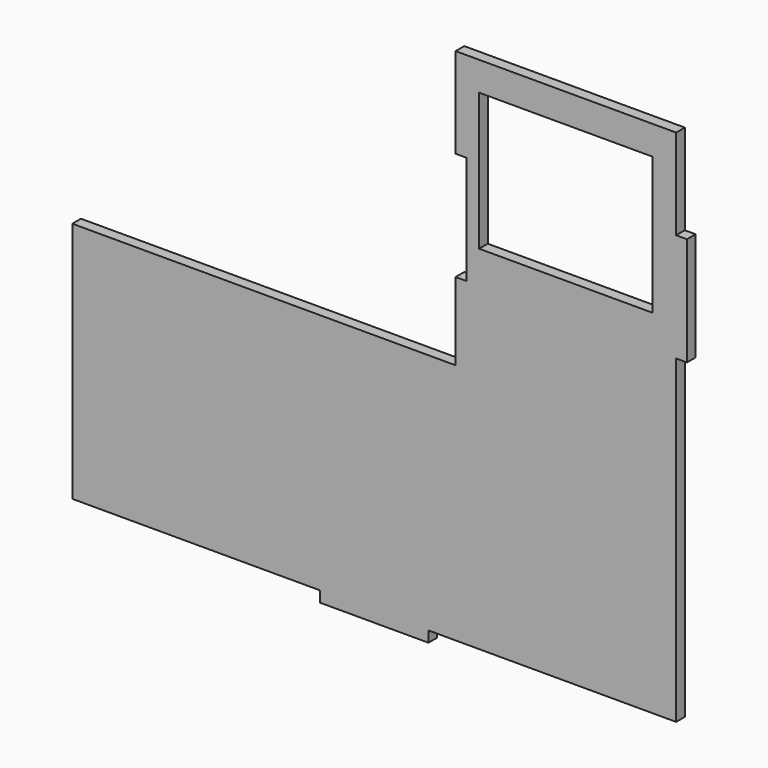
from build123d import *

# Parameters (mm, degrees)
F0_W     = 30
F0_H     = 3
F0_W_2   = 3
F0_H_2   = 30
F1_DEPTH = 3
F2_W     = 48
F2_H     = 38
F2_W_2   = 3
F2_H_2   = 30
F3_DEPTH = 25


with BuildPart() as f1:
    # F0 (on Front) → F1 (new body)
    with BuildSketch(Plane.XZ):
        Polygon((0, 67), (0, 0), (68.5, 0), (98.5, 0), (167, 0), (167, 88.5), (167, 118.5), (167, 143.5), (106, 143.5), (106, 67), align=None)
        with Locations((83.5, -1.5)):
            Rectangle(F0_W, F0_H)
        with Locations((168.5, 103.5)):
            Rectangle(F0_W_2, F0_H_2)
    extrude(amount=F1_DEPTH)

    # F2 (on face) → F3 (cut)
    with BuildSketch(Plane.XZ.offset(3)):
        with Locations((136.5, 116.5)):
            Rectangle(F2_W, F2_H)
        with Locations((107.5, 103.5)):
            Rectangle(F2_W_2, F2_H_2)
    extrude(amount=-F3_DEPTH, mode=Mode.SUBTRACT)


solid = f1.part
